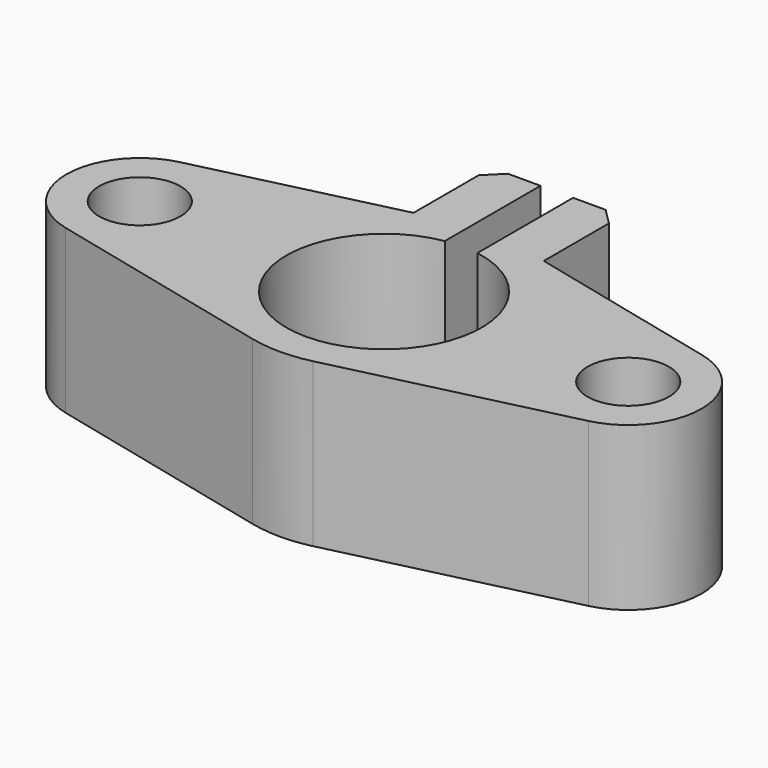
from build123d import *

# Parameters (mm, degrees)
F0_R     = 2.5
F0_R_2   = 6
F1_DEPTH = 5
F2_W     = 2
F2_H     = 10
F3_DEPTH = 7.3521866209
F4_SIZE  = 1


with BuildPart() as f1:
    # F0 (on Top) → F1 (new body, symmetric)
    with BuildSketch(Plane.XY):
        with BuildLine():
            ThreePointArc((-16.05, 4.3757856437), (-19.5, 0), (-16.05, -4.3757856437))
            Line((-16.05, -4.3757856437), (-1.8666666667, -7.7791744778))
            ThreePointArc((-1.8666666667, -7.7791744778), (-0.9398415233, -7.9446018095), (0, -8))
            ThreePointArc((0, -8), (0.9398415233, -7.9446018095), (1.8666666667, -7.7791744778))
            Line((1.8666666667, -7.7791744778), (16.05, -4.3757856437))
            ThreePointArc((16.05, -4.3757856437), (19.5, 0), (16.05, 4.3757856437))
            Line((16.05, 4.3757856437), (4, 7.267266404))
            Line((4, 7.267266404), (4, 13.267266404))
            Line((4, 13.267266404), (0, 13.267266404))
            Line((0, 13.267266404), (-4, 13.267266404))
            Line((-4, 13.267266404), (-4, 7.267266404))
            Line((-4, 7.267266404), (-16.05, 4.3757856437))
        make_face()
        with Locations((-15, 0)):
            Circle(F0_R, mode=Mode.SUBTRACT)
        Circle(F0_R_2, mode=Mode.SUBTRACT)
        with Locations((15, 0)):
            Circle(F0_R, mode=Mode.SUBTRACT)
    extrude(amount=F1_DEPTH, both=True)

    # F2 (on face) → F3 (cut, through all)
    with BuildSketch(Plane(origin=(0, 13.267266404, 0), x_dir=(-1, 0, 0), z_dir=(0, 1, 0))):
        Rectangle(F2_W, F2_H)
    extrude(amount=-F3_DEPTH, mode=Mode.SUBTRACT)

    # F4
    f4_edges = [f1.edges().sort_by_distance(p)[0] for p in [
        (-4, 13.267266, 0),
        (4, 13.267266, 0),
    ]]
    chamfer(f4_edges, length=F4_SIZE)


solid = f1.part
